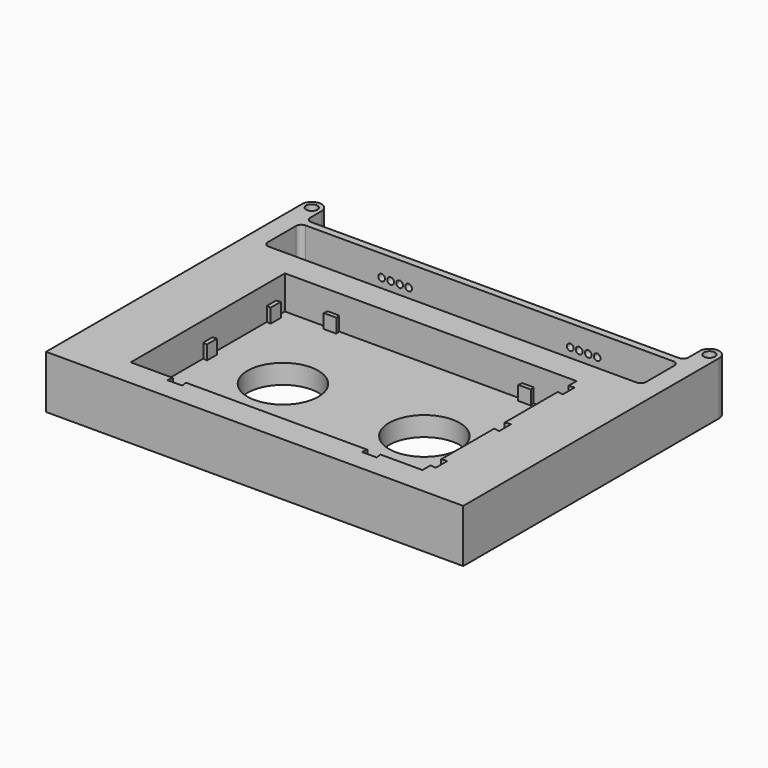
from build123d import *

# Parameters (mm, degrees)
PAD001_DEPTH    = 9.5
SKETCH_R        = 1.6
PAD_DEPTH       = 15
POCKET_DEPTH    = 13
SKETCH003_R     = 10
POCKET001_DEPTH = 15.001
SKETCH004_R     = 0.95
POCKET002_DEPTH = 2
SKETCH005_R     = 3.8
POCKET003_DEPTH = 0.6
SKETCH007_W     = 73.88
SKETCH007_H     = 52.42
POCKET004_DEPTH = 5.5


with BuildPart() as obj1:
    # Sketch006 → Pad001 (new body)
    with BuildSketch(Plane.XY):
        Polygon((-41.25, 27.25), (-29.1, 27.25), (-29.3, 26.05), (-25.7, 26.05), (-25.9, 27.25), (25.9, 27.25), (25.7, 26.05), (29.3, 26.05), (29.1, 27.25), (41.25, 27.25), (41.25, 24.35), (42.85, 24.6), (42.85, 20.4), (41.25, 20.65), (41.25, 1.85), (42.85, 2.1), (42.85, -2.1), (41.25, -1.85), (41.25, -20.65), (42.85, -20.4), (42.85, -24.6), (41.25, -24.35), (41.25, -27.25), (29.35, -27.25), (29.6, -28.85), (25.4, -28.85), (25.65, -27.25), (-25.65, -27.25), (-25.4, -28.85), (-29.6, -28.85), (-29.35, -27.25), (-41.25, -27.25), (-41.25, -24.1), (-40.05, -24.3), (-40.05, -20.7), (-41.25, -20.9), (-41.25, -1.6), (-40.05, -1.8), (-40.05, 1.8), (-41.25, 1.6), (-41.25, 20.9), (-40.05, 20.7), (-40.05, 24.3), (-41.25, 24.1), align=None)
    extrude(amount=-PAD001_DEPTH)


with BuildPart() as body:
    # Sketch → Pad (new body)
    with BuildSketch(Plane.XY):
        with BuildLine():
            Line((-52, 50), (52, 50))
            ThreePointArc((52, 50), (53.06066, 50.43934), (53.5, 51.5))
            Line((53.5, 51.5), (53.5, 55.5))
            ThreePointArc((59, 55.5), (56.25, 58.25), (53.5, 55.5))
            Line((59, 55.5), (59, -35))
            Line((59, -35), (-59, -35))
            Line((-59, 55.5), (-59, -35))
            ThreePointArc((-53.5, 55.5), (-56.25, 58.25), (-59, 55.5))
            Line((-53.5, 51.5), (-53.5, 55.5))
            ThreePointArc((-53.5, 51.5), (-53.06066, 50.43934), (-52, 50))
        make_face()
        with Locations((-56.25, 55.5)):
            Circle(SKETCH_R, mode=Mode.SUBTRACT)
        with Locations((56.25, 55.5)):
            Circle(SKETCH_R, mode=Mode.SUBTRACT)
    extrude(amount=-PAD_DEPTH)

    # Sketch001 (on Face13 of Pad) → Pocket (cut)
    with BuildSketch(Plane.XY):
        with BuildLine():
            Line((-52, 48), (52, 48))
            ThreePointArc((53.5, 46.5), (53.06066, 47.56066), (52, 48))
            Line((53.5, 46.5), (53.5, 36.5))
            ThreePointArc((52, 35), (53.06066, 35.43934), (53.5, 36.5))
            Line((52, 35), (-52, 35))
            ThreePointArc((-53.5, 36.5), (-53.06066, 35.43934), (-52, 35))
            Line((-53.5, 36.5), (-53.5, 46.5))
            ThreePointArc((-52, 48), (-53.06066, 47.56066), (-53.5, 46.5))
        make_face()
    extrude(amount=-POCKET_DEPTH, mode=Mode.SUBTRACT)

    # Sketch003 (on Face4 of Pocket) → Pocket001 (cut, through all)
    with BuildSketch(Plane.XY):
        with Locations((-20, 0)):
            Circle(SKETCH003_R)
        with Locations((20, 0)):
            Circle(SKETCH003_R)
    extrude(amount=-POCKET001_DEPTH, mode=Mode.SUBTRACT)

    # Sketch004 (on Face18 of Pocket001) → Pocket002 (cut)
    with BuildSketch(Plane.XZ.offset(-48)):
        with Locations((-30.48, -6)):
            Circle(SKETCH004_R)
        with Locations((-27.94, -6)):
            Circle(SKETCH004_R)
        with Locations((-25.4, -6)):
            Circle(SKETCH004_R)
        with Locations((-22.86, -6)):
            Circle(SKETCH004_R)
        with Locations((22.86, -6)):
            Circle(SKETCH004_R)
        with Locations((25.4, -6)):
            Circle(SKETCH004_R)
        with Locations((27.94, -6)):
            Circle(SKETCH004_R)
        with Locations((30.48, -6)):
            Circle(SKETCH004_R)
    extrude(amount=-POCKET002_DEPTH, mode=Mode.SUBTRACT)

    # Sketch005 (on Face5 of Pocket002) → Pocket003 (cut)
    with BuildSketch(Plane(origin=(0, 0, -15), x_dir=(1, 0, 0), z_dir=(0, 0, -1))):
        with Locations((-51.5, 27)):
            Circle(SKETCH005_R)
        with Locations((-51.5, -43)):
            Circle(SKETCH005_R)
        with Locations((51.5, -43)):
            Circle(SKETCH005_R)
        with Locations((51.5, 27)):
            Circle(SKETCH005_R)
    extrude(amount=-POCKET003_DEPTH, mode=Mode.SUBTRACT)

    # Boolean: cut obj1
    add(obj1.part, mode=Mode.SUBTRACT)

    # Sketch007 (on Face4 of Boolean) → Pocket004 (cut)
    with BuildSketch(Plane.XY):
        with Locations((-4.31, 1.04)):
            Rectangle(SKETCH007_W, SKETCH007_H)
    extrude(amount=-POCKET004_DEPTH, mode=Mode.SUBTRACT)


solid = body.part
